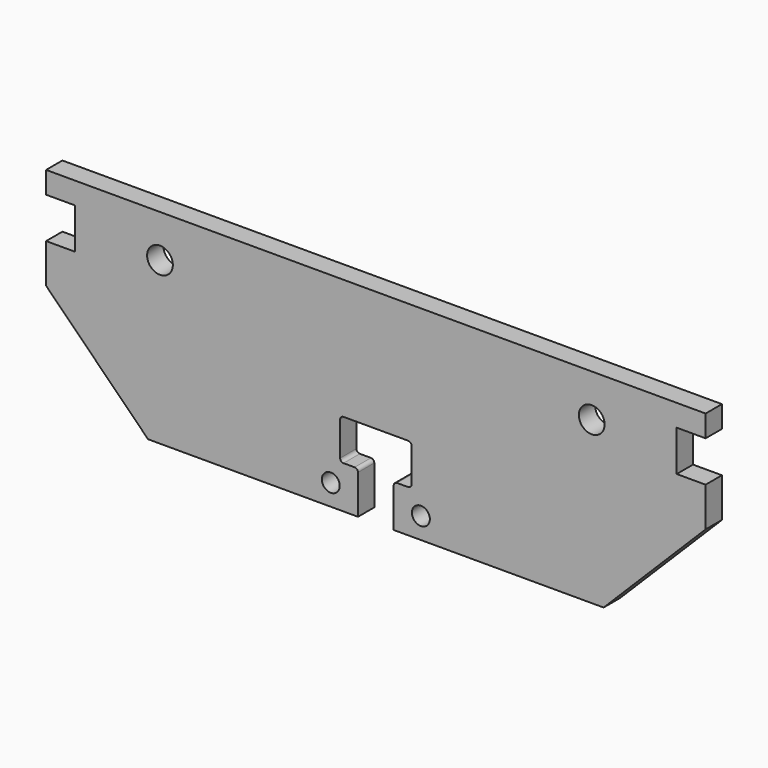
from build123d import *

# Parameters (mm, degrees)
F0_R     = 5.275
F0_R_2   = 7.575
F1_DEPTH = 12


with BuildPart() as f1:
    # F0 (on Front) → F1 (new body)
    with BuildSketch(Plane.XZ):
        with BuildLine():
            Line((194, 0), (0, 0))
            Line((0, 0), (0, -71))
            Line((0, -71), (19, -71))
            ThreePointArc((19, -71), (20.414214, -71.585786), (21, -73))
            Line((21, -73), (21, -93))
            ThreePointArc((21, -93), (20.414214, -94.414214), (19, -95))
            Line((19, -95), (12.5, -95))
            ThreePointArc((12.5, -95), (11.085786, -95.585786), (10.5, -97))
            Line((10.5, -97), (10.5, -120))
            Line((10.5, -120), (134, -120))
            Line((134, -120), (194, -60))
            Line((194, -60), (194, -36.86))
            Line((194, -36.86), (177, -36.86))
            Line((177, -36.86), (177, -12.86))
            Line((177, -12.86), (194, -12.86))
            Line((194, -12.86), (194, 0))
        make_face()
        with Locations((26.5, -107.5)):
            Circle(F0_R, mode=Mode.SUBTRACT)
        with Locations((127, -25)):
            Circle(F0_R_2, mode=Mode.SUBTRACT)
    extrude(amount=F1_DEPTH)

    # F2: F1 across face


with BuildPart() as f1_1:
    add(f1.part)
    add(f1.part.mirror(Plane(origin=(0, -6, -35.5), x_dir=(0, -1, 0), z_dir=(-1, 0, 0))))


solid = f1_1.part
